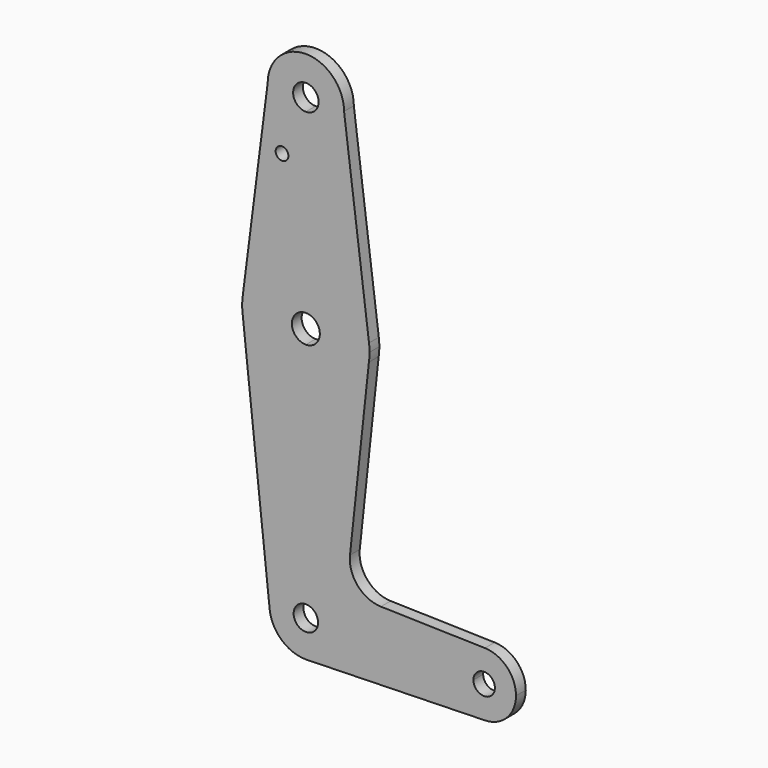
from build123d import *

# Parameters (mm, degrees)
F0_R     = 1.5875
F1_DEPTH = 3.048


with BuildPart() as f1:
    # F0 (on Front) → F1 (new body)
    with BuildSketch(Plane.XZ):
        with BuildLine():
            Line((0.4645650247, -50.284099206), (0, -50.2959937731))
            ThreePointArc((0, -50.2959937731), (0.232358636, -50.2930196442), (0.4645650247, -50.284099206))
        make_face()
        with BuildLine():
            ThreePointArc((9.525, 73.0821904052), (6.7351920908, 66.3469983144), (0, 63.5571904052))
            Line((0, 63.5571904052), (0, 38.1571904052))
            ThreePointArc((0, 38.1571904052), (10.4912828548, 34.1964091819), (15.7474569047, 24.2904797355))
            Line((15.7474569047, 24.2904797355), (9.525, 73.0821904052))
        make_face()
        with BuildLine():
            Line((36.5125, -41.2178095948), (9.0781841783, -41.2178095948))
            ThreePointArc((9.0781841783, -41.2178095948), (6.5814449337, -47.4706497942), (0.4645650247, -50.284099206))
            Line((0.4645650247, -50.284099206), (44.6531625088, -49.1527091685))
            ThreePointArc((44.6531625088, -49.1527091685), (38.9096343155, -46.9018446345), (36.5125, -41.2178095948))
        make_face()
        with BuildLine():
            ThreePointArc((44.6531625088, -33.2829100211), (38.9096343155, -35.5337745552), (36.5125, -41.2178095948))
            ThreePointArc((36.5125, -41.2178095948), (38.9096343155, -46.9018446345), (44.6531625088, -49.1527091685))
            ThreePointArc((44.6531625088, -49.1527091685), (50.1340350396, -46.7581752793), (52.3875, -41.2178095948))
            ThreePointArc((52.3875, -41.2178095948), (50.1340350396, -35.6774439103), (44.6531625088, -33.2829100211))
        make_face()
        with BuildLine():
            ThreePointArc((47.1279881659, -41.2178095948), (44.45, -43.8957977607), (41.7720118341, -41.2178095948))
            ThreePointArc((41.7720118341, -41.2178095948), (44.45, -38.539821429), (47.1279881659, -41.2178095948))
        make_face(mode=Mode.SUBTRACT)
        with BuildLine():
            ThreePointArc((-9.525, 73.0821904052), (-6.7351920908, 66.3469983144), (0, 63.5571904052))
            ThreePointArc((0, 63.5571904052), (6.7351920908, 66.3469983144), (9.525, 73.0821904052))
            ThreePointArc((9.525, 73.0821904052), (0, 82.6071904052), (-9.525, 73.0821904052))
        make_face()
        with BuildLine():
            ThreePointArc((3.175, 73.0821904052), (2.2450640303, 70.8371263749), (0, 69.9071904052))
            ThreePointArc((0, 69.9071904052), (-2.2450640303, 75.3272544354), (3.175, 73.0821904052))
        make_face(mode=Mode.SUBTRACT)
        with BuildLine():
            Line((0, 38.1571904052), (0, 63.5571904052))
            ThreePointArc((0, 63.5571904052), (-6.7351920908, 66.3469983144), (-9.525, 73.0821904052))
            Line((-9.525, 73.0821904052), (-15.7474569047, 24.2904797355))
            ThreePointArc((-15.7474569047, 24.2904797355), (-10.4912828548, 34.1964091819), (0, 38.1571904052))
        make_face()
        with Locations((-5.9427297674, 58.8073904052)):
            Circle(F0_R, mode=Mode.SUBTRACT)
        with BuildLine():
            ThreePointArc((15.7474569047, 24.2904797355), (10.4912828548, 34.1964091819), (0, 38.1571904052))
            Line((0, 38.1571904052), (0, 25.7680542362))
            ThreePointArc((0, 25.7680542362), (2.4648779532, 24.7470683584), (3.485863831, 22.2821904052))
            ThreePointArc((3.485863831, 22.2821904052), (2.4648779532, 19.817312452), (0, 18.7963265742))
            Line((0, 18.7963265742), (0, 6.4071904052))
            ThreePointArc((0, 6.4071904052), (10.4128571786, 10.2993681008), (15.7197376065, 20.0673598064))
            ThreePointArc((15.7197376065, 20.0673598064), (15.8361368317, 21.1720574185), (15.875, 22.2821904052))
            ThreePointArc((15.875, 22.2821904052), (15.8430821396, 23.2883580447), (15.7474569047, 24.2904797355))
        make_face()
        with BuildLine():
            Line((0, 25.7680542362), (0, 38.1571904052))
            ThreePointArc((0, 38.1571904052), (-10.4912828548, 34.1964091819), (-15.7474569047, 24.2904797355))
            ThreePointArc((-15.7474569047, 24.2904797355), (-15.875, 22.2821904052), (-15.7474569047, 20.2739010748))
            ThreePointArc((-15.7474569047, 20.2739010748), (-10.4912828548, 10.3679716284), (0, 6.4071904052))
            Line((0, 6.4071904052), (0, 18.7963265742))
            ThreePointArc((0, 18.7963265742), (-3.485863831, 22.2821904052), (0, 25.7680542362))
        make_face()
        with BuildLine():
            ThreePointArc((15.7197376065, 20.0673598064), (10.4128571786, 10.2993681008), (0, 6.4071904052))
            Line((0, 6.4071904052), (0, -32.1396254165))
            ThreePointArc((0, -32.1396254165), (6.4192455933, -34.7985640015), (9.0781841783, -41.2178095948))
            Line((9.0781841783, -41.2178095948), (36.5125, -41.2178095948))
            ThreePointArc((36.5125, -41.2178095948), (38.9096343155, -35.5337745552), (44.6531625088, -33.2829100211))
            Line((44.6531625088, -33.2829100211), (18.7017788356, -32.6167213751))
            ThreePointArc((18.7017788356, -32.6167213751), (12.9236191961, -29.9054753977), (11.0011560067, -23.8192517036))
            Line((11.0011560067, -23.8192517036), (15.7197376065, 20.0673598064))
        make_face()
        with BuildLine():
            ThreePointArc((0, -32.1396254165), (-6.7539133686, -35.1516673129), (-9.0260780458, -42.1890681014))
            ThreePointArc((-9.0260780458, -42.1890681014), (-6.0661422819, -47.9717229635), (0, -50.2959937731))
            Line((0, -50.2959937731), (0.4645650247, -50.284099206))
            ThreePointArc((0.4645650247, -50.284099206), (6.5814449337, -47.4706497942), (9.0781841783, -41.2178095948))
            Line((9.0781841783, -41.2178095948), (3.0469310098, -41.2178095948))
            ThreePointArc((3.0469310098, -41.2178095948), (-2.1545055788, -43.3723151736), (0, -38.1708785851))
            Line((0, -38.1708785851), (0, -32.1396254165))
        make_face()
        with BuildLine():
            ThreePointArc((0, 6.4071904052), (-10.4912828548, 10.3679716284), (-15.7474569047, 20.2739010748))
            Line((-15.7474569047, 20.2739010748), (-9.0260780458, -42.1890681014))
            ThreePointArc((-9.0260780458, -42.1890681014), (-6.7539133686, -35.1516673129), (0, -32.1396254165))
            Line((0, -32.1396254165), (0, 6.4071904052))
        make_face()
        with BuildLine():
            ThreePointArc((9.0781841783, -41.2178095948), (6.4192455933, -34.7985640015), (0, -32.1396254165))
            Line((0, -32.1396254165), (0, -38.1708785851))
            ThreePointArc((0, -38.1708785851), (2.1545055788, -39.063304016), (3.0469310098, -41.2178095948))
            Line((3.0469310098, -41.2178095948), (9.0781841783, -41.2178095948))
        make_face()
    extrude(amount=F1_DEPTH)


solid = f1.part
